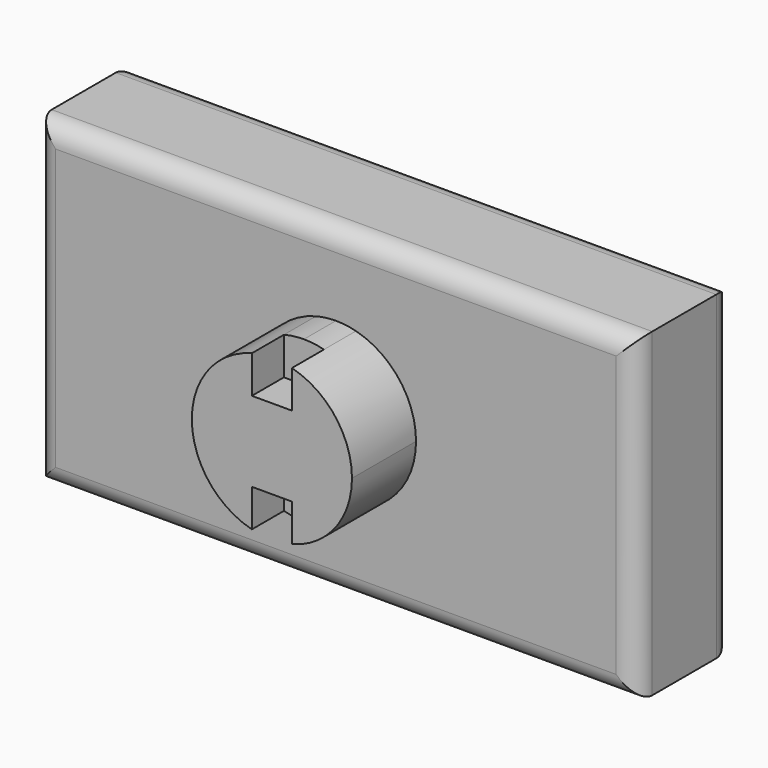
from build123d import *

# Parameters (mm, degrees)
F0_W     = 150
F0_H     = 30
F1_DEPTH = 80
F3_DEPTH = 20
F4_DEPTH = 10
F5_R     = 5
F7_DEPTH = 20
F8_DEPTH = 10


with BuildPart() as f1:
    # F0 (on Top) → F1 (new body)
    with BuildSketch(Plane.XY):
        Rectangle(F0_W, F0_H)
    extrude(amount=F1_DEPTH)

    # F2 (on face) → F3 (join)
    with BuildSketch(Plane.XZ.offset(15)):
        with BuildLine():
            ThreePointArc((5, 20.635083), (15.811388, 27.752551), (20, 40))
            ThreePointArc((20, 40), (15.811388, 52.247449), (5, 59.364917))
            Line((5, 59.364917), (5, 50))
            Line((5, 50), (0, 50))
            Line((0, 50), (-5, 50))
            Line((-5, 50), (-5, 59.364917))
            ThreePointArc((-5, 59.364917), (-20, 40), (-5, 20.635083))
            Line((-5, 20.635083), (-5, 30))
            Line((-5, 30), (0, 30))
            Line((0, 30), (5, 30))
            Line((5, 30), (5, 20.635083))
        make_face()
    extrude(amount=F3_DEPTH)

    # F2 (on face) → F4 (join)
    with BuildSketch(Plane.XZ.offset(15)):
        with BuildLine():
            Line((5, 50), (5, 59.364917))
            ThreePointArc((5, 59.364917), (2.520086, 59.840594), (0, 60))
            Line((0, 60), (0, 50))
            Line((0, 50), (5, 50))
        make_face()
        with BuildLine():
            Line((0, 50), (0, 60))
            ThreePointArc((0, 60), (-2.520086, 59.840594), (-5, 59.364917))
            Line((-5, 59.364917), (-5, 50))
            Line((-5, 50), (0, 50))
        make_face()
        with BuildLine():
            ThreePointArc((0, 20), (2.520086, 20.159406), (5, 20.635083))
            Line((5, 20.635083), (5, 30))
            Line((5, 30), (0, 30))
            Line((0, 30), (0, 20))
        make_face()
        with BuildLine():
            ThreePointArc((-5, 20.635083), (-2.520086, 20.159406), (0, 20))
            Line((0, 20), (0, 30))
            Line((0, 30), (-5, 30))
            Line((-5, 30), (-5, 20.635083))
        make_face()
    extrude(amount=F4_DEPTH)

    # F5
    f5_edges = [f1.edges().sort_by_distance(p)[0] for p in [
        (0, -15, 80),
        (0, 15, 80),
        (0, -15, 0),
        (0, 15, 0),
        (75, -15, 40),
        (75, 15, 40),
        (-75, -15, 40),
        (-75, 15, 40),
    ]]
    fillet(f5_edges, radius=F5_R)

    # F6 (on face) → F7 (cut)
    with BuildSketch(Plane(origin=(0, 15, 0), x_dir=(-1, 0, 0), z_dir=(0, 1, 0))):
        with BuildLine():
            ThreePointArc((5, 20.635083), (15.811388, 27.752551), (20, 40))
            ThreePointArc((20, 40), (15.811388, 52.247449), (5, 59.364917))
            Line((5, 59.364917), (5, 50))
            Line((5, 50), (0, 50))
            Line((0, 50), (-5, 50))
            Line((-5, 50), (-5, 59.364917))
            ThreePointArc((-5, 59.364917), (-20, 40), (-5, 20.635083))
            Line((-5, 20.635083), (-5, 30))
            Line((-5, 30), (0, 30))
            Line((0, 30), (5, 30))
            Line((5, 30), (5, 20.635083))
        make_face()
    extrude(amount=-F7_DEPTH, mode=Mode.SUBTRACT)

    # F6 (on face) → F8 (cut)
    with BuildSketch(Plane(origin=(0, 15, 0), x_dir=(-1, 0, 0), z_dir=(0, 1, 0))):
        with BuildLine():
            Line((5, 50), (5, 59.364917))
            ThreePointArc((5, 59.364917), (2.520086, 59.840594), (0, 60))
            Line((0, 60), (0, 50))
            Line((0, 50), (5, 50))
        make_face()
        with BuildLine():
            Line((0, 50), (0, 60))
            ThreePointArc((0, 60), (-2.520086, 59.840594), (-5, 59.364917))
            Line((-5, 59.364917), (-5, 50))
            Line((-5, 50), (0, 50))
        make_face()
        with BuildLine():
            ThreePointArc((0, 20), (2.520086, 20.159406), (5, 20.635083))
            Line((5, 20.635083), (5, 30))
            Line((5, 30), (0, 30))
            Line((0, 30), (0, 20))
        make_face()
        with BuildLine():
            ThreePointArc((-5, 20.635083), (-2.520086, 20.159406), (0, 20))
            Line((0, 20), (0, 30))
            Line((0, 30), (-5, 30))
            Line((-5, 30), (-5, 20.635083))
        make_face()
    extrude(amount=-F8_DEPTH, mode=Mode.SUBTRACT)


solid = f1.part
